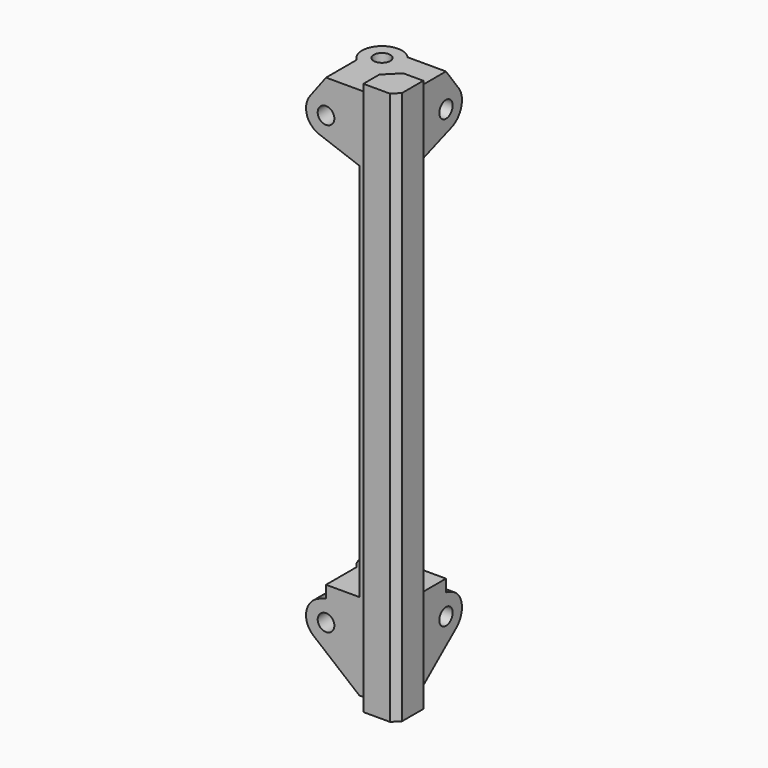
from build123d import *

# Parameters (mm, degrees)
F1_DEPTH  = 80
F2_R      = 1.25
F3_DEPTH  = 3
F4_DEPTH  = 3
F5_R      = 1.25
F6_DEPTH  = 3
F7_R      = 1.25
F8_DEPTH  = 3
F9_SIZE   = 1
F10_R     = 1.25
F10_W     = 3
F10_H     = 13
F11_DEPTH = 3
F12_W     = 3
F12_H     = 13
F12_R     = 1.25
F13_DEPTH = 3
F14_W     = 8
F14_H     = 3
F14_W_2   = 2
F15_DEPTH = 10
F17_DEPTH = 3
F16_R     = 1.25
F18_DEPTH = 25


with BuildPart() as f1:
    # F0 (on Top) → F1 (new body)
    with BuildSketch(Plane.XY):
        Polygon((40, 3), (40, 0), (45, 0), (45, 5), (42, 5), (42, 8), (40, 8), (40, 5), (37, 5), (37, 3), align=None)
    extrude(amount=F1_DEPTH)

    # F2 (on face) → F3 (join)
    with BuildSketch(Plane.XY.offset(80)):
        with BuildLine():
            Line((32, 3), (37, 3))
            Line((37, 3), (37, 5))
            Line((37, 5), (40, 5))
            Line((40, 5), (40, 8))
            Line((40, 8), (42, 8))
            Line((42, 8), (42, 13))
            Line((42, 13), (36.2360679775, 13))
            ThreePointArc((36.2360679775, 13), (36.8025170769, 12.0704662693), (37, 11))
            ThreePointArc((37, 11), (35.2247448714, 8.2613872125), (32, 8.7639320225))
            Line((32, 8.7639320225), (32, 3))
        make_face()
        with BuildLine():
            ThreePointArc((36.2360679775, 13), (31.8786796564, 13.1213203436), (32, 8.7639320225))
            ThreePointArc((32, 8.7639320225), (35.2247448714, 8.2613872125), (37, 11))
            ThreePointArc((37, 11), (36.8025170769, 12.0704662693), (36.2360679775, 13))
        make_face()
        with Locations((34, 11)):
            Circle(F2_R, mode=Mode.SUBTRACT)
    extrude(amount=-F3_DEPTH)

    # F2 (on face) → F4 (join)
    with BuildSketch(Plane.XY.offset(80)):
        Polygon((42, 5), (40, 3), (40, 0), (45, 0), (45, 5), align=None)
    extrude(amount=F4_DEPTH)

    # F5 (on face) → F6 (join)
    with BuildSketch(Plane.XZ.offset(-3)):
        with BuildLine():
            Line((32, 77), (32, 78))
            ThreePointArc((32, 78), (30.6583592135, 77.683281573), (29.6, 76.8))
            ThreePointArc((29.6, 76.8), (29.1245100257, 74.144688707), (30.97393957, 72.1809221376))
            ThreePointArc((30.97393957, 72.1809221376), (33.7207293091, 72.5425438671), (35, 75))
            ThreePointArc((35, 75), (34.8025170769, 76.0704662693), (34.2360679775, 77))
            Line((34.2360679775, 77), (32, 77))
        make_face()
        with Locations((32, 75)):
            Circle(F5_R, mode=Mode.SUBTRACT)
        with BuildLine():
            ThreePointArc((29.6, 76.8), (30.6583592135, 77.683281573), (32, 78))
            Line((32, 78), (32, 80))
            Line((32, 80), (29.6, 76.8))
        make_face()
        with BuildLine():
            Line((37, 77), (34.2360679775, 77))
            ThreePointArc((34.2360679775, 77), (34.8025170769, 76.0704662693), (35, 75))
            ThreePointArc((35, 75), (33.7207293091, 72.5425438671), (30.97393957, 72.1809221376))
            Line((30.97393957, 72.1809221376), (37, 69.9876155112))
            Line((37, 69.9876155112), (37, 77))
        make_face()
    extrude(amount=-F6_DEPTH)

    # F7 (on face) → F8 (join)
    with BuildSketch(Plane.YZ.offset(42)):
        with BuildLine():
            Line((8, 69.9876155112), (14.02606043, 72.1809221376))
            ThreePointArc((14.02606043, 72.1809221376), (10.5156676094, 73.3183066353), (10.7639320225, 77))
            Line((10.7639320225, 77), (8, 77))
            Line((8, 77), (8, 69.9876155112))
        make_face()
        with BuildLine():
            ThreePointArc((14.02606043, 72.1809221376), (15.4574561329, 73.2792706909), (16, 75))
            ThreePointArc((16, 75), (15.8460498942, 75.9486832981), (15.4, 76.8))
            ThreePointArc((15.4, 76.8), (14.3416407865, 77.683281573), (13, 78))
            Line((13, 78), (13, 77))
            Line((13, 77), (10.7639320225, 77))
            ThreePointArc((10.7639320225, 77), (10.5156676094, 73.3183066353), (14.02606043, 72.1809221376))
        make_face()
        with Locations((13, 75)):
            Circle(F7_R, mode=Mode.SUBTRACT)
        with BuildLine():
            ThreePointArc((13, 78), (14.3416407865, 77.683281573), (15.4, 76.8))
            Line((15.4, 76.8), (13, 80))
            Line((13, 80), (13, 78))
        make_face()
    extrude(amount=-F8_DEPTH)

    # F9
    f9_edges = [f1.edges().sort_by_distance(p)[0] for p in [
        (45, 0, 41.5),
    ]]
    chamfer(f9_edges, length=F9_SIZE)

    # F10 (on face) → F11 (join)
    with BuildSketch(Plane.XZ.offset(-3)):
        with BuildLine():
            ThreePointArc((30.0936794849, 5.6835496781), (33.2808275557, 5.2871637033), (35, 8))
            ThreePointArc((35, 8), (33.7229608507, 10.4558920796), (30.9790627288, 10.8209372712))
            ThreePointArc((30.9790627288, 10.8209372712), (29.0435836969, 8.5095121614), (30.0936794849, 5.6835496781))
        make_face()
        with Locations((32, 8)):
            Circle(F10_R, mode=Mode.SUBTRACT)
        with BuildLine():
            ThreePointArc((30.9790627288, 10.8209372712), (33.7229608507, 10.4558920796), (35, 8))
            ThreePointArc((35, 8), (33.2808275557, 5.2871637033), (30.0936794849, 5.6835496781))
            Line((30.0936794849, 5.6835496781), (37, 0))
            Line((37, 0), (37, 13))
            Line((37, 13), (30.9790627288, 10.8209372712))
        make_face()
        with Locations((38.5, 6.5)):
            Rectangle(F10_W, F10_H)
    extrude(amount=-F11_DEPTH)

    # F12 (on face) → F13 (join)
    with BuildSketch(Plane.YZ.offset(42)):
        with Locations((6.5, 6.5)):
            Rectangle(F12_W, F12_H)
        with BuildLine():
            ThreePointArc((14.9063205151, 5.6835496781), (10.0435836969, 7.4904878386), (14.0209372712, 10.8209372712))
            Line((14.0209372712, 10.8209372712), (8, 13))
            Line((8, 13), (8, 0))
            Line((8, 0), (14.9063205151, 5.6835496781))
        make_face()
        with BuildLine():
            ThreePointArc((14.9063205151, 5.6835496781), (15.7128362967, 6.7191724443), (16, 8))
            ThreePointArc((16, 8), (15.4558920796, 9.7229608507), (14.0209372712, 10.8209372712))
            ThreePointArc((14.0209372712, 10.8209372712), (10.0435836969, 7.4904878386), (14.9063205151, 5.6835496781))
        make_face()
        with Locations((13, 8)):
            Circle(F12_R, mode=Mode.SUBTRACT)
    extrude(amount=-F13_DEPTH)

    # F14 (on face) → F15 (join)
    with BuildSketch(Plane.XZ.offset(-3)):
        with Locations((36, 11.5)):
            Rectangle(F14_W, F14_H)
        with Locations((41, 11.5)):
            Rectangle(F14_W_2, F14_H)
    extrude(amount=-F15_DEPTH)

    # F16 (on face) → F17 (join)
    with BuildSketch(Plane.XY.offset(13)):
        with BuildLine():
            Line((32, 13), (36.2360679775, 13))
            ThreePointArc((36.2360679775, 13), (31.8786796564, 13.1213203436), (32, 8.7639320225))
            Line((32, 8.7639320225), (32, 13))
        make_face()
    extrude(amount=-F17_DEPTH)

    # F16 (on face) → F18 (cut)
    with BuildSketch(Plane.XY.offset(13)):
        with Locations((34, 11)):
            Circle(F16_R)
    extrude(amount=-F18_DEPTH, mode=Mode.SUBTRACT)


solid = f1.part
